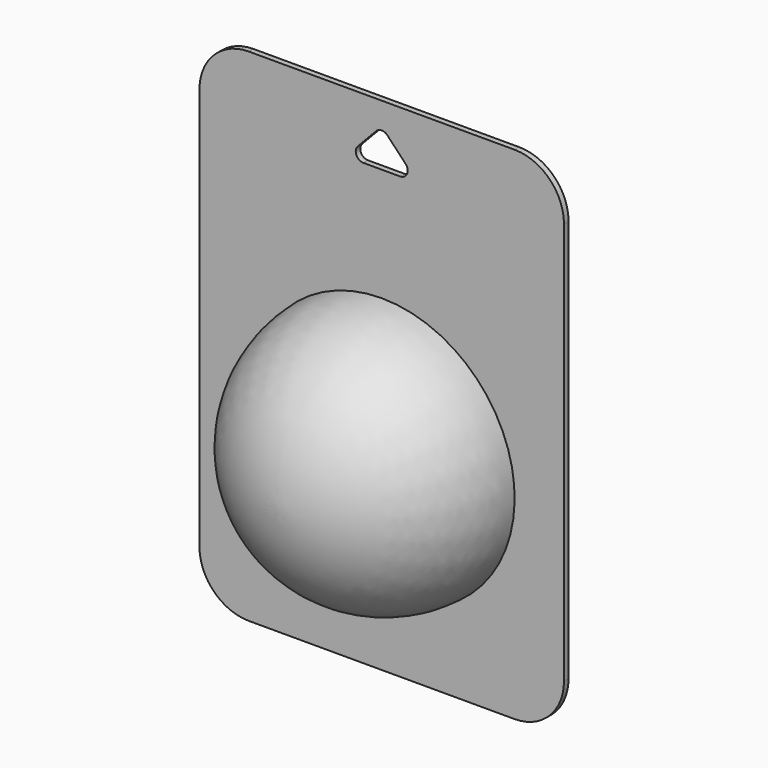
from build123d import *

# Parameters (mm, degrees)
F1_DEPTH = 1.5


with BuildPart() as f1:
    # F0 (on Front) → F1 (new body)
    with BuildSketch(Plane.XZ):
        with BuildLine():
            ThreePointArc((48, 53), (44.192388, 62.192388), (35, 66))
            Line((35, 66), (-35, 66))
            ThreePointArc((-35, 66), (-44.192388, 62.192388), (-48, 53))
            Line((-48, 53), (-48, -53))
            ThreePointArc((-48, -53), (-44.192388, -62.192388), (-35, -66))
            Line((-35, -66), (35, -66))
            ThreePointArc((35, -66), (44.192388, -62.192388), (48, -53))
            Line((48, -53), (48, 53))
        make_face()
        with BuildLine():
            Line((-6.291376, 53.377499), (-1.449999, 58.473685))
            ThreePointArc((-1.449999, 58.473685), (0, 59.096186), (1.449999, 58.473685))
            Line((1.449999, 58.473685), (6.291376, 53.377499))
            ThreePointArc((6.291376, 53.377499), (6.679174, 51.211013), (4.841377, 50))
            Line((4.841377, 50), (0, 50))
            Line((0, 50), (-4.841377, 50))
            ThreePointArc((-4.841377, 50), (-6.679174, 51.211013), (-6.291376, 53.377499))
        make_face(mode=Mode.SUBTRACT)
    extrude(amount=F1_DEPTH)

    # F3 (on Right) → F4 (revolve)
    with BuildSketch(Plane.YZ):
        with BuildLine():
            Line((-35.523952, -14.787897), (-1.5, -14.787897))
            Line((-1.5, -14.787897), (-1.5, 20.212103))
            ThreePointArc((-1.5, 20.212103), (-25.616183, 9.618195), (-35.523952, -14.787897))
        make_face()
    revolve(axis=Axis((0, -18.511976, -14.787897), (0, 1, 0)))


solid = f1.part
